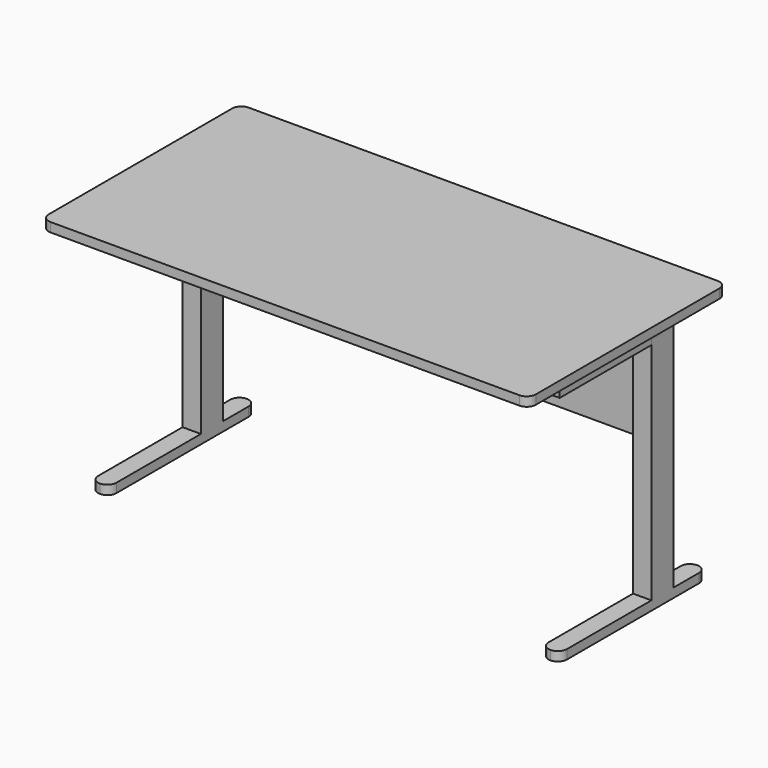
from build123d import *

# Parameters (mm, degrees)
F1_DEPTH = 25.4
F2_W     = 50.8
F2_H     = 317.5
F3_DEPTH = 38.1
F4_W     = 50.8
F4_H     = 76.2
F5_DEPTH = 660.4
F6_W     = 1195.401192
F6_H     = 25.4
F7_DEPTH = 304.8
F9_DEPTH = 25.4


with BuildPart() as f1:
    # F0 (on Top) → F1 (new body)
    with BuildSketch(Plane.XY):
        with BuildLine():
            Line((0, -342.9), (648.97, -342.9))
            ThreePointArc((648.97, -342.9), (666.930512, -335.460512), (674.37, -317.5))
            Line((674.37, -317.5), (674.37, 317.5))
            ThreePointArc((674.37, 317.5), (666.930512, 335.460512), (648.97, 342.9))
            Line((648.97, 342.9), (0, 342.9))
            Line((0, 342.9), (0, -342.9))
        make_face()
        with BuildLine():
            Line((-648.97, -342.9), (0, -342.9))
            Line((0, -342.9), (0, 342.9))
            Line((0, 342.9), (-648.97, 342.9))
            ThreePointArc((-648.97, 342.9), (-666.930512, 335.460512), (-674.37, 317.5))
            Line((-674.37, 317.5), (-674.37, -317.5))
            ThreePointArc((-674.37, -317.5), (-666.930512, -335.460512), (-648.97, -342.9))
        make_face()
    extrude(amount=F1_DEPTH)

    # F2 (on Top) → F3 (join)
    with BuildSketch(Plane.XY):
        with Locations((-623.57, -44.45)):
            Rectangle(F2_W, F2_H)
        with Locations((623.57, -44.45)):
            Rectangle(F2_W, F2_H)
    extrude(amount=-F3_DEPTH)

    # F4 (on face) → F5 (join)
    with BuildSketch(Plane.XY):
        with Locations((-623.534083, 152.223289)):
            Rectangle(F4_W, F4_H)
        with Locations((623.534083, 152.223289)):
            Rectangle(F4_W, F4_H)
    extrude(amount=-F5_DEPTH)

    # F6 (on Top) → F7 (join)
    with BuildSketch(Plane.XY):
        with Locations((0, 176.231914)):
            Rectangle(F6_W, F6_H)
    extrude(amount=-F7_DEPTH)

    # F8 (on face) → F9 (join)
    with BuildSketch(Plane(origin=(0, 0, -660.4), x_dir=(1, 0, 0), z_dir=(0, 0, -1))):
        with BuildLine():
            ThreePointArc((-623.534083, 203.559189), (-641.494596, 196.119702), (-648.934083, 178.159189))
            Line((-648.934083, 178.159189), (-648.934083, -279.040811))
            ThreePointArc((-648.934083, -279.040811), (-641.494596, -297.001323), (-623.534083, -304.440811))
            ThreePointArc((-623.534083, -304.440811), (-605.573571, -297.001323), (-598.134083, -279.040811))
            Line((-598.134083, -279.040811), (-598.134083, 178.159189))
            ThreePointArc((-598.134083, 178.159189), (-605.573571, 196.119702), (-623.534083, 203.559189))
        make_face()
        with BuildLine():
            ThreePointArc((623.534083, 203.559189), (605.573571, 196.119702), (598.134083, 178.159189))
            Line((598.134083, 178.159189), (598.134083, -279.040811))
            ThreePointArc((598.134083, -279.040811), (605.573571, -297.001323), (623.534083, -304.440811))
            ThreePointArc((623.534083, -304.440811), (641.494596, -297.001323), (648.934083, -279.040811))
            Line((648.934083, -279.040811), (648.934083, 178.159189))
            ThreePointArc((648.934083, 178.159189), (641.494596, 196.119702), (623.534083, 203.559189))
        make_face()
    extrude(amount=F9_DEPTH)


solid = f1.part
